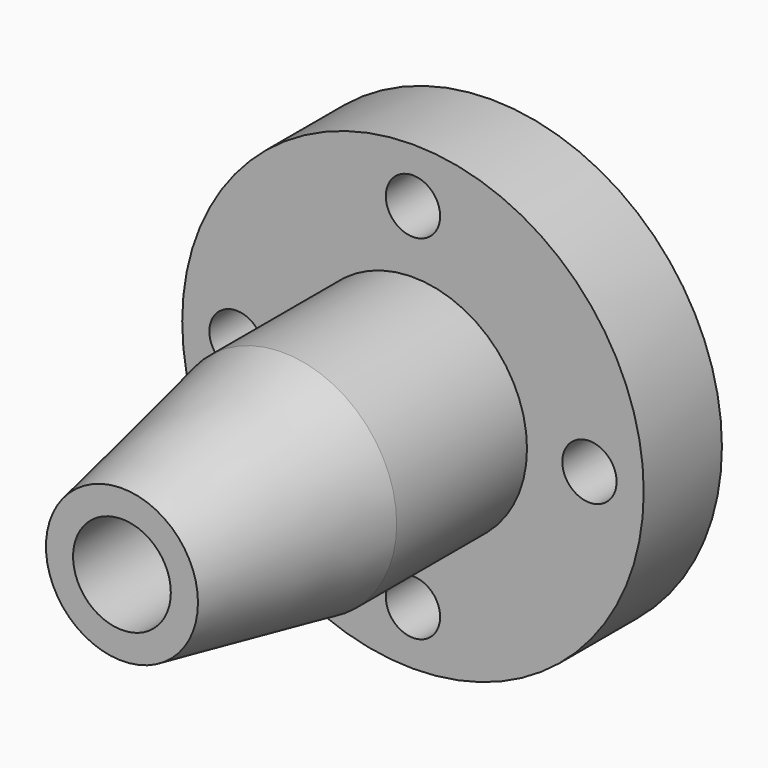
from build123d import *

# Parameters (mm, degrees)
F3_D = 10


with BuildPart() as f1:
    # F0 (on Top) → F1 (revolve)
    with BuildSketch(Plane.XY):
        Polygon((9, 42.5), (9, -42.5), (14, -42.5), (21, -5.5), (21, 24.5), (42.5, 24.5), (42.5, 42.5), align=None)
    revolve(axis=Axis((0, 0, 0), (0, -1, 0)))

    # F3 (through all)
    with Locations(Plane.XZ.offset(-24.5)):
        with Locations((0, 32.5), (32.5, 0), (0, -32.5), (-32.5, 0)):
            Hole(F3_D / 2)


solid = f1.part
